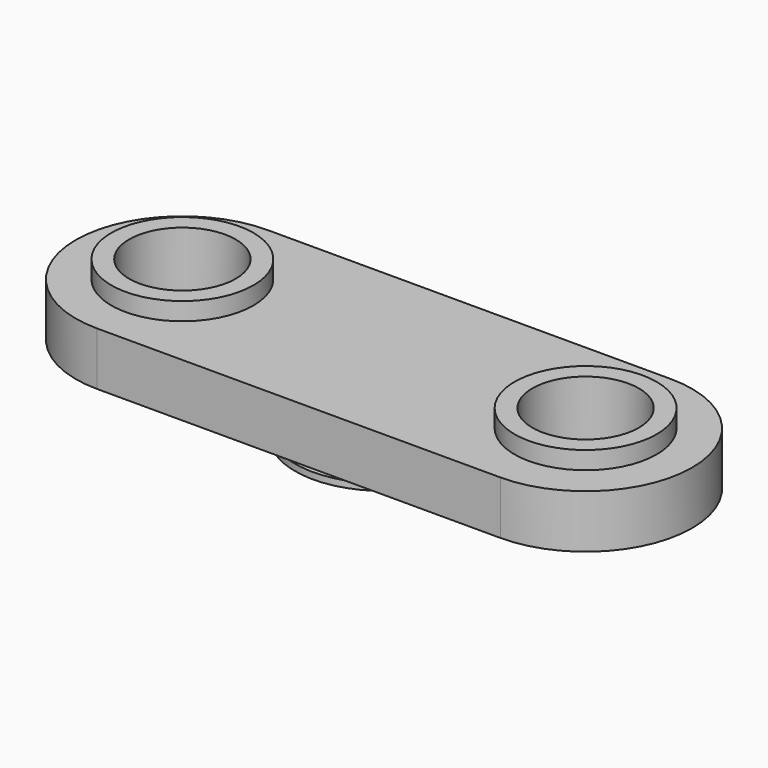
from build123d import *

# Parameters (mm, degrees)
F0_R     = 1.5
F1_DEPTH = 1.5
F2_R     = 2
F2_R_2   = 1.5
F3_DEPTH = 0.5


with BuildPart() as f1:
    # F0 (on Top) → F1 (new body)
    with BuildSketch(Plane.XY):
        with BuildLine():
            Line((0, 3), (-5.675, 3))
            ThreePointArc((-5.675, 3), (-8.675, 0), (-5.675, -3))
            Line((-5.675, -3), (0, -3))
            Line((0, -3), (5.675, -3))
            ThreePointArc((5.675, -3), (8.675, 0), (5.675, 3))
            Line((5.675, 3), (0, 3))
        make_face()
        with Locations((-5.675, 0)):
            Circle(F0_R, mode=Mode.SUBTRACT)
        with Locations((5.675, 0)):
            Circle(F0_R, mode=Mode.SUBTRACT)
    extrude(amount=F1_DEPTH)

    # F2 (on face) → F3 (join)
    with BuildSketch(Plane.XY.offset(1.5)):
        with Locations((-5.675, 0)):
            Circle(F2_R)
        with Locations((-5.675, 0)):
            Circle(F2_R_2, mode=Mode.SUBTRACT)
        with Locations((5.675, 0)):
            Circle(F2_R)
        with Locations((5.675, 0)):
            Circle(F2_R_2, mode=Mode.SUBTRACT)
    extrude(amount=F3_DEPTH)


with BuildPart() as f5:
    # F4 (on Front) → F5 (revolve)
    with BuildSketch(Plane.XZ):
        with BuildLine():
            Line((1.5, 0.6), (1.5, 0))
            Line((1.5, 0), (1.5, -0.6))
            Line((1.5, -0.6), (2.5, -0.6))
            Line((2.5, -0.6), (2.5, -0.417265))
            ThreePointArc((2.5, -0.417265), (2.204949, -0.295051), (2.082735, 0))
            ThreePointArc((2.082735, 0), (2.204949, 0.295051), (2.5, 0.417265))
            Line((2.5, 0.417265), (2.5, 0.6))
            Line((2.5, 0.6), (1.5, 0.6))
        make_face()
    revolve(axis=Axis((0, 0, 0.320348), (0, 0, 1)))


solid = Compound([f1.part, f5.part])
